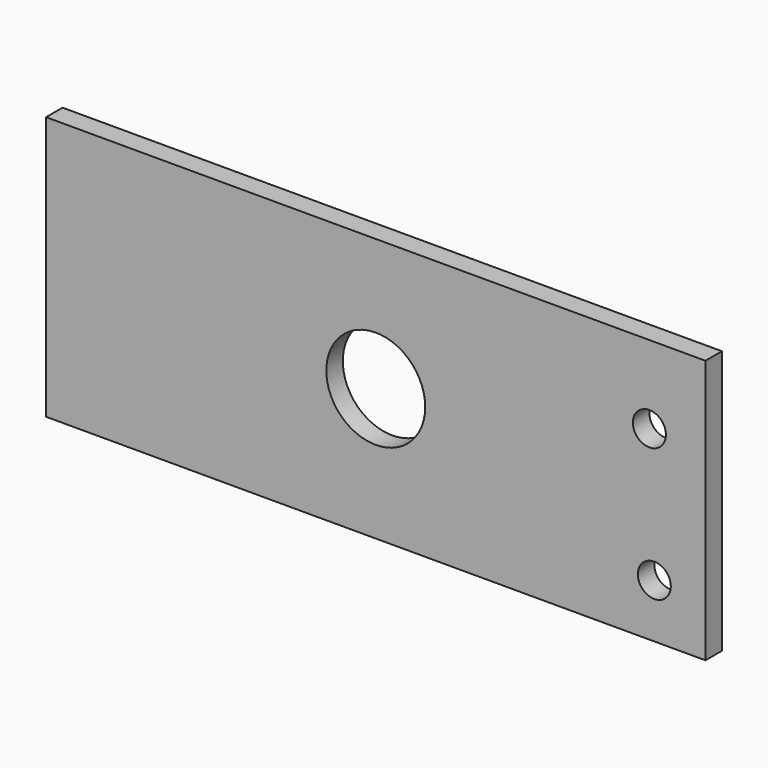
from build123d import *

# Parameters (mm, degrees)
F0_W     = 127
F0_H     = 50.8
F0_R     = 9.525
F1_DEPTH = 3.96748
F2_R     = 3.175
F3_DEPTH = 25.4


with BuildPart() as f1:
    # F0 (on Front) → F1 (new body)
    with BuildSketch(Plane.XZ):
        with Locations((-0.631245, -8.837846)):
            Rectangle(F0_W, F0_H)
        with Locations((-0.631245, -8.837846)):
            Circle(F0_R, mode=Mode.SUBTRACT)
    extrude(amount=F1_DEPTH)

    # F2 (on face) → F3 (cut)
    with BuildSketch(Plane.XZ.offset(3.96748)):
        with Locations((52.070868, 1.529197)):
            Circle(F2_R)
        with Locations((53.02218, -23.870803)):
            Circle(F2_R)
    extrude(amount=-F3_DEPTH, mode=Mode.SUBTRACT)


solid = f1.part
